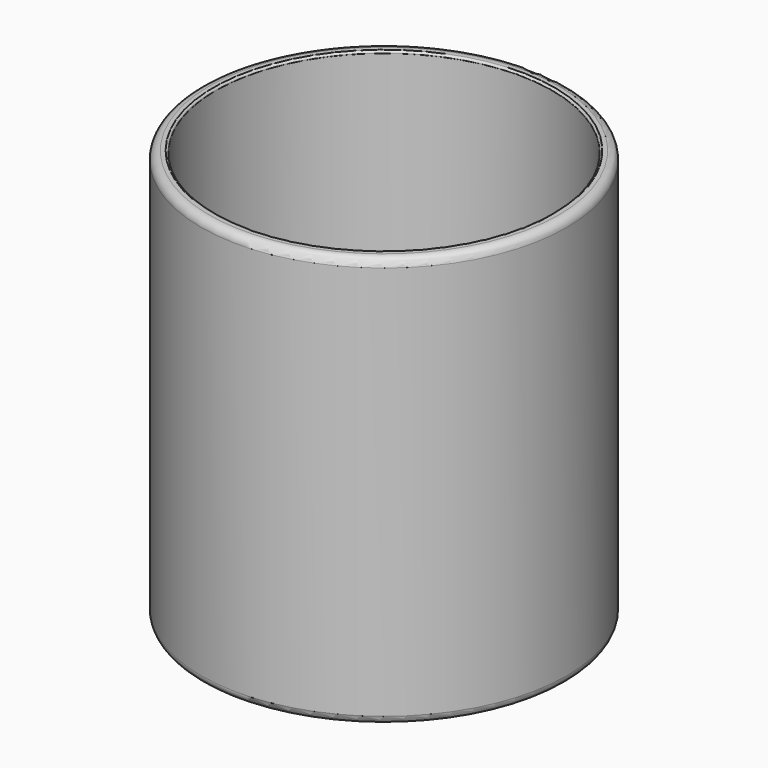
from build123d import *

# Parameters (mm, degrees)
F0_R     = 44.5
F0_R_2   = 41
F1_DEPTH = 100
F2_R     = 2
F3_R     = 0.5
F4_DEPTH = 2


with BuildPart() as f1:
    # F0 (on Top) → F1 (new body)
    with BuildSketch(Plane.XY):
        Circle(F0_R)
        Circle(F0_R_2, mode=Mode.SUBTRACT)
    extrude(amount=F1_DEPTH)

    # F2
    f2_edges = [f1.edges().sort_by_distance(p)[0] for p in [
        (-44.5, 0, 100),
        (-44.5, 0, 0),
    ]]
    fillet(f2_edges, radius=F2_R)

    # F3
    f3_edges = [f1.edges().sort_by_distance(p)[0] for p in [
        (-41, 0, 100),
    ]]
    fillet(f3_edges, radius=F3_R)

    # F0 (on Top) → F4 (join)
    with BuildSketch(Plane.XY):
        Circle(F0_R_2)
    extrude(amount=F4_DEPTH)


solid = f1.part
